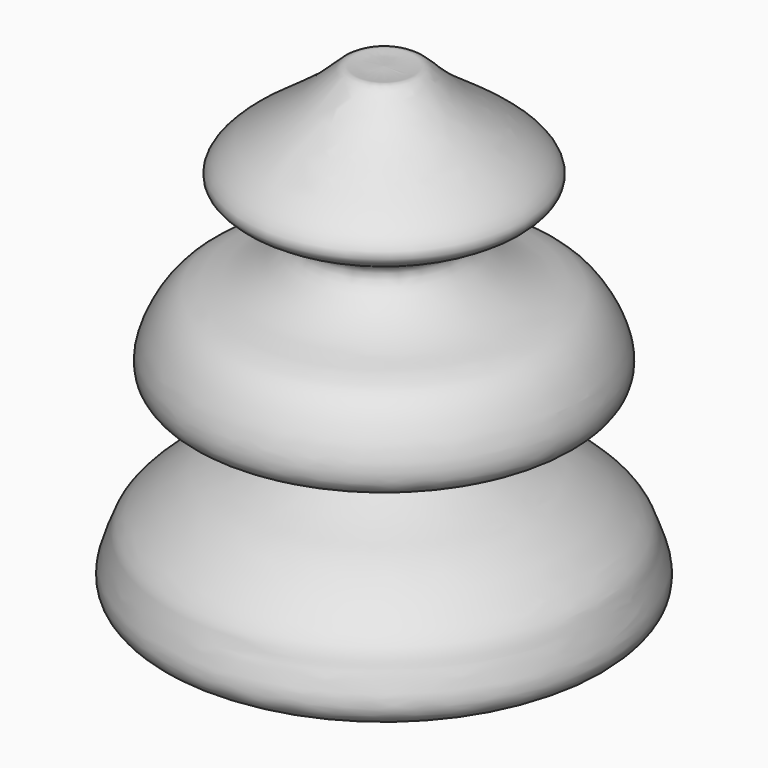
from build123d import *


with BuildPart() as f1:
    # F0 (on Front) → F1 (revolve)
    with BuildSketch(Plane.XZ):
        with BuildLine():
            Line((0, 33.3046540618), (0, 0))
            add(Edge.make_bspline(
                [(1.9706892781, 3.5472412128), (1.3137928521, 2.3648274752), (0.656896426, 1.1824137376), (0, 0)],
                knots=[0, 0, 0, 0, 4.0578980338, 4.0578980338, 4.0578980338, 4.0578980338], degree=3))
            add(Edge.make_bspline(
                [(0, 33.3046540618), (0.596561308, 33.2811757246), (1.5584404431, 33.243319896), (2.2765199874, 33.499104457), (3.9899290477, 31.3931001027), (7.5392535732, 29.2816991467), (10.1351472376, 26.7374536668), (6.0650578364, 25.3655988338), (3.8060488122, 23.8463477386), (7.5581644116, 21.0875927747), (10.3596538358, 20.8130323686), (12.1589330463, 18.7393151279), (13.4260681159, 14.6002822383), (6.8381979715, 14.5508452965), (5.391309206, 14.6343953129), (4.5843988719, 14.4483544813), (3.0079813793, 13.6252987554), (8.6725249415, 10.7696178392), (10.4501701007, 10.1668872239), (13.6208613374, 7.5374985719), (13.9026640047, 6.4075130526), (15.1858860838, 3.5538536216), (11.5518633837, 2.3358173275), (9.0020272565, 3.7456056435), (4.0937634389, 3.155242744), (2.3525559142, 3.5152229683), (1.9706892781, 3.5472412128)],
                knots=[0, 0, 0, 0, 0.0321463956, 0.0518319689, 0.0912712773, 0.1464855182, 0.1861940284, 0.2337294852, 0.2694891646, 0.3182933407, 0.3621146438, 0.4038022451, 0.4478693327, 0.5074259525, 0.5395723718, 0.5626504334, 0.5860606296, 0.6440988972, 0.685728813, 0.7345329931, 0.7639697726, 0.8036115176, 0.846617181, 0.8910691771, 0.9478965118, 0.9839268093, 0.9839268093, 0.9839268093, 0.9839268093], degree=3))
        make_face()
    revolve(axis=Axis((0, 0, 16.6523270309), (0, 0, 1)))


solid = f1.part
